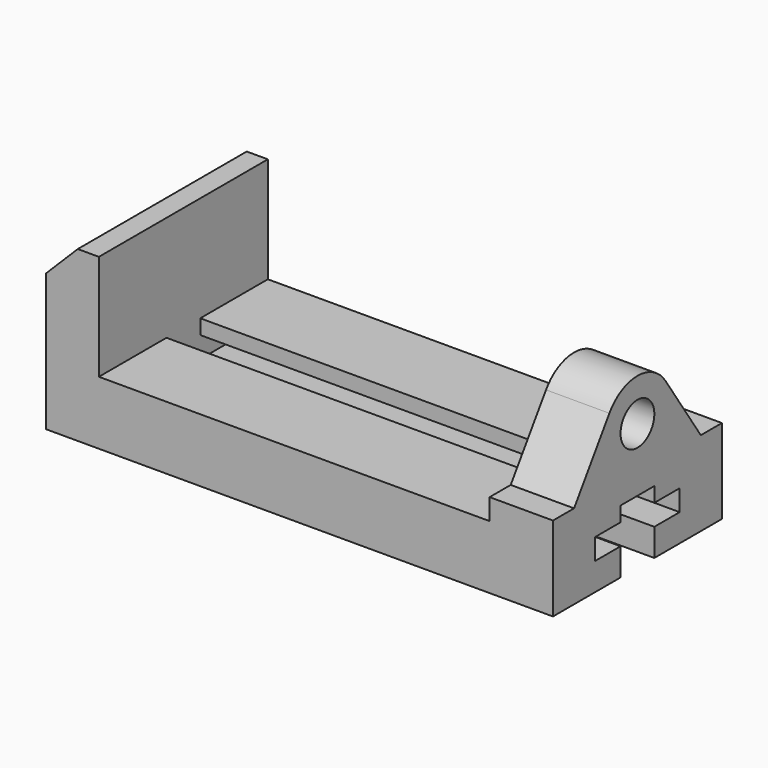
from build123d import *

# Parameters (mm, degrees)
F0_R     = 12.7
F1_DEPTH = 38.1
F3_DEPTH = 266.7
F4_W     = 31.75
F4_H     = 38.1
F5_DEPTH = 127


with BuildPart() as f1:
    # F0 (on Right) → F1 (new body)
    with BuildSketch(Plane.YZ):
        with BuildLine():
            Line((-63.5, 0), (-12.7, 0))
            Line((-12.7, 0), (-12.7, 16.51))
            Line((-12.7, 16.51), (-31.75, 16.51))
            Line((-31.75, 16.51), (-31.75, 29.21))
            Line((-31.75, 29.21), (-12.7, 29.21))
            Line((-12.7, 29.21), (-12.7, 38.1))
            Line((-12.7, 38.1), (12.7, 38.1))
            Line((12.7, 38.1), (12.7, 29.21))
            Line((12.7, 29.21), (31.75, 29.21))
            Line((31.75, 29.21), (31.75, 16.51))
            Line((31.75, 16.51), (12.7, 16.51))
            Line((12.7, 16.51), (12.7, 0))
            Line((12.7, 0), (63.5, 0))
            Line((63.5, 0), (63.5, 50.8))
            Line((63.5, 50.8), (47.625, 50.8))
            Line((47.625, 50.8), (21.0934256055, 90.3501730104))
            ThreePointArc((21.0934256055, 90.3501730104), (0, 101.6), (-21.0934256055, 90.3501730104))
            Line((-21.0934256055, 90.3501730104), (-47.625, 50.8))
            Line((-47.625, 50.8), (-63.5, 50.8))
            Line((-63.5, 50.8), (-63.5, 0))
        make_face()
        with Locations((0, 76.2)):
            Circle(F0_R, mode=Mode.SUBTRACT)
    extrude(amount=F1_DEPTH)

    # F2 (on Right) → F3 (join)
    with BuildSketch(Plane.YZ):
        Polygon((12.7, 16.51), (12.7, 0), (63.5, 0), (63.5, 38.1), (12.7, 38.1), (12.7, 29.21), (31.75, 29.21), (31.75, 16.51), align=None)
        Polygon((-12.7, 29.21), (-12.7, 38.1), (-63.5, 38.1), (-63.5, 0), (-12.7, 0), (-12.7, 16.51), (-31.75, 16.51), (-31.75, 29.21), align=None)
    extrude(amount=-F3_DEPTH)

    # F4 (on face) → F5 (join)
    with BuildSketch(Plane.XZ.offset(63.5)):
        Polygon((-266.7, 82.55), (-266.7, 38.1), (-234.95, 38.1), (-234.95, 101.6), (-247.65, 101.6), align=None)
        with Locations((-250.825, 19.05)):
            Rectangle(F4_W, F4_H)
    extrude(amount=-F5_DEPTH)


solid = f1.part
